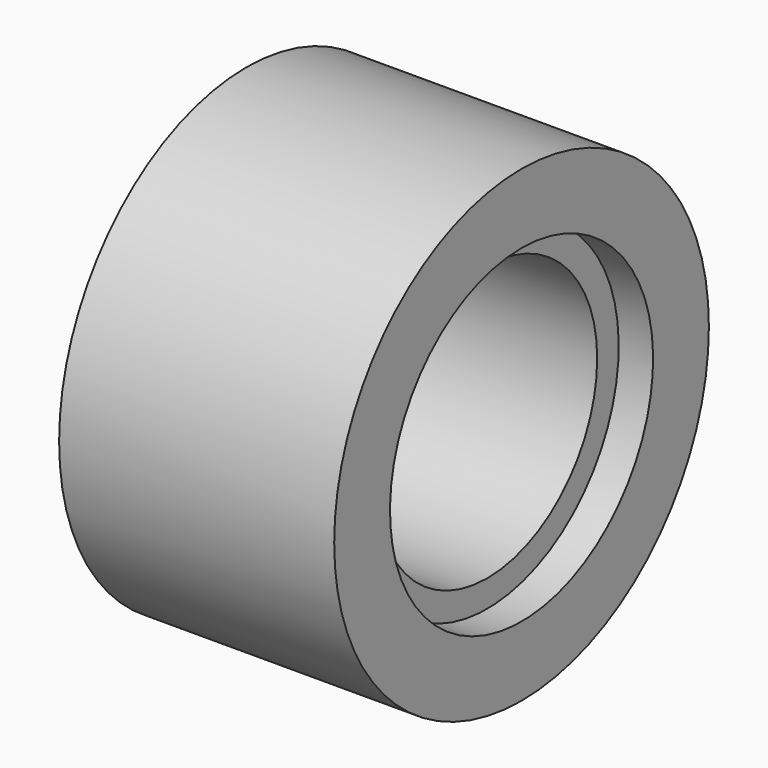
from build123d import *

# Parameters (mm, degrees)
F0_W     = 38.1
F0_H     = 30.3672830875
F0_H_2   = 6.4400146099
F2_R     = 25.4
F3_DEPTH = 44.451


with BuildPart() as f1:
    # F0 (on Front) → F1 (revolve)
    with BuildSketch(Plane.XZ):
        with Locations((19.05, 15.1836415437)):
            Rectangle(F0_W, F0_H)
        Polygon((-6.35, 30.3672830875), (0, 30.3672830875), (0, 36.8072976974), (38.1, 36.8072976974), (38.1, 30.3672830875), (44.45, 30.3672830875), (44.45, 43.2473123074), (-6.35, 43.2473123074), align=None)
        with Locations((19.05, 33.5872903924)):
            Rectangle(F0_W, F0_H_2)
    revolve(axis=Axis((19.05, 0, 0), (1, 0, 0)))

    # F2 (on face) → F3 (cut, through all)
    with BuildSketch(Plane.YZ.offset(38.1)):
        Circle(F2_R)
    extrude(amount=-F3_DEPTH, mode=Mode.SUBTRACT)


solid = f1.part
